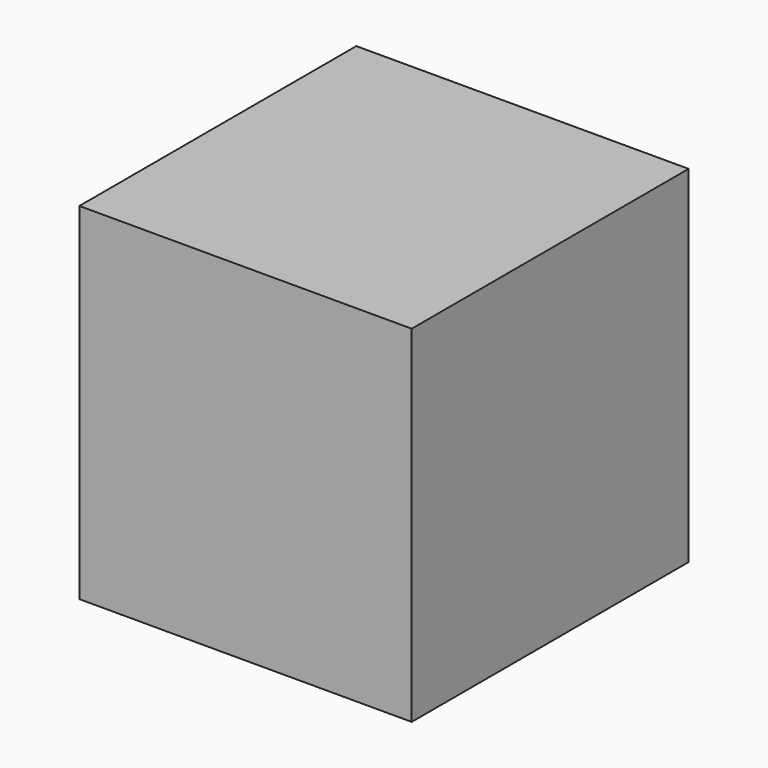
from build123d import *

# Parameters (mm, degrees)
F1_W     = 120
F1_H     = 125
F2_DEPTH = 125


with BuildPart() as f2:
    # F1 (on offset) → F2 (new body)
    with BuildSketch(Plane.XY):
        Rectangle(F1_W, F1_H)
    extrude(amount=F2_DEPTH)


solid = f2.part
